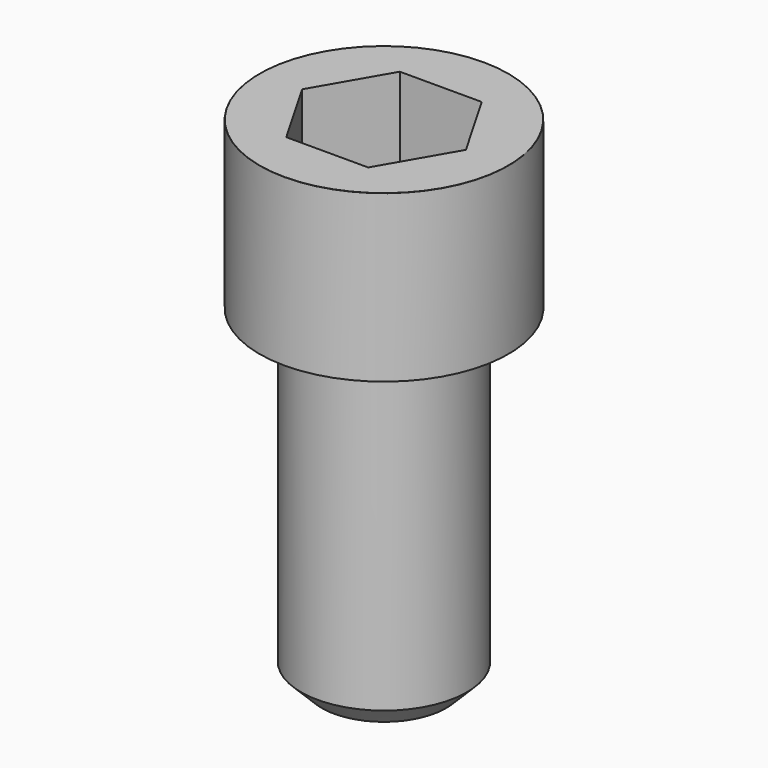
from build123d import *

# Parameters (mm, degrees)
POCKET_DEPTH = 17.1


with BuildPart() as part:
    # Sketch → Revolve (revolve)
    with BuildSketch(Plane.YZ):
        with BuildLine():
            Line((9.999, 0), (15, 0))
            Line((15, 0), (15, 19.97229))
            ThreePointArc((15, 19.97229), (14.991884, 19.991884), (14.97229, 20))
            Line((14.97229, 20), (0, 20))
            Line((0, -40), (0, 20))
            Line((7.5, -40), (0, -40))
            Line((10, -37.5), (7.5, -40))
            Line((10, -0.2), (10, -37.5))
            Line((9.999, 0), (10, -0.2))
        make_face()
    revolve(axis=Axis((0, 0, 0), (0, 0, 1)))

    # Sketch001 → Pocket (cut)
    with BuildSketch(Plane.XY.offset(20)):
        Polygon((9.87269, 0), (4.936345, 8.55), (-4.936345, 8.55), (-9.87269, 0), (-4.936345, -8.55), (4.936345, -8.55), align=None)
    extrude(amount=-POCKET_DEPTH, mode=Mode.SUBTRACT)


solid = part.part
